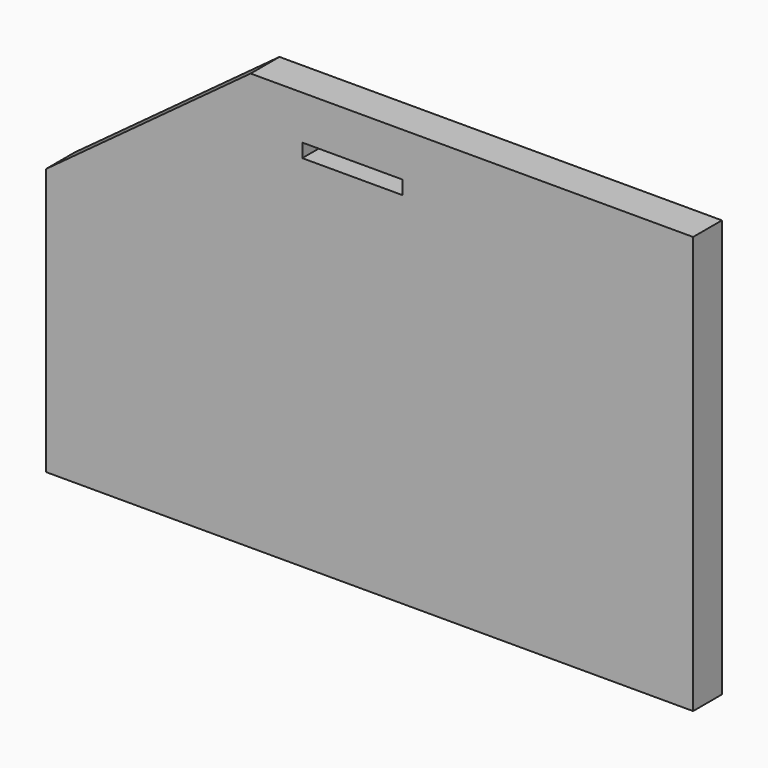
from build123d import *

# Parameters (mm, degrees)
F0_W          = 58.9205864817
F0_H          = 37.636497058
F0_W_2        = 32.3154758662
F1_DEPTH      = 2.54
F1_DEPTH_BACK = 2.54
F2_W          = 3.5040900111
F2_H          = 3.5040876828
F2_W_2        = 3.5040881485
F3_DEPTH      = 3.556
F4_W          = 9.6756285056
F4_H          = 1.0419934988
F5_DEPTH      = 1.524
F6_W          = 14.1413027886
F6_H          = 1.9351281226
F7_DEPTH      = 3.048


with BuildPart() as f1:
    # F0 (on Front) → F1 (new body, two sides)
    with BuildSketch(Plane.XZ) as f1_sk:
        Polygon((-25.1475647092, 51.5233650804), (-53.9889074862, 30.3038693964), (4.9316789955, 30.3038693964), align=None)
        Polygon((-25.1475647092, 51.5233650804), (4.9316789955, 30.3038693964), (37.2471548617, 30.3038693964), (37.2471548617, 51.5233650804), align=None)
        with Locations((-24.5286142454, 11.4856208675)):
            Rectangle(F0_W, F0_H)
        with Locations((21.0894169286, 11.4856208675)):
            Rectangle(F0_W_2, F0_H)
    extrude(amount=F1_DEPTH)
    extrude(f1_sk.sketch, amount=-F1_DEPTH_BACK)

    # F2 (on face) → F3 (cut)
    with BuildSketch(Plane(origin=(0, 0, -7.3326276615), x_dir=(1, 0, 0), z_dir=(0, 0, -1))):
        with Locations((-47.6945266128, 5.5805838201)):
            Rectangle(F2_W, F2_H)
        with Locations((27.3189069703, 5.5805838201)):
            Rectangle(F2_W_2, F2_H)
    extrude(amount=-F3_DEPTH, mode=Mode.SUBTRACT)

    # F4 (on face) → F5 (join)
    with BuildSketch(Plane.XZ.offset(2.54)):
        with Locations((-4.8378142528, 45.4010255635)):
            Rectangle(F4_W, F4_H)
    extrude(amount=-F5_DEPTH)

    # F6 (on face) → F7 (cut)
    with BuildSketch(Plane.XZ.offset(2.54)):
        with Locations((-10.7920466689, 44.3590339273)):
            Rectangle(F6_W, F6_H)
    extrude(amount=-F7_DEPTH, mode=Mode.SUBTRACT)


solid = f1.part
